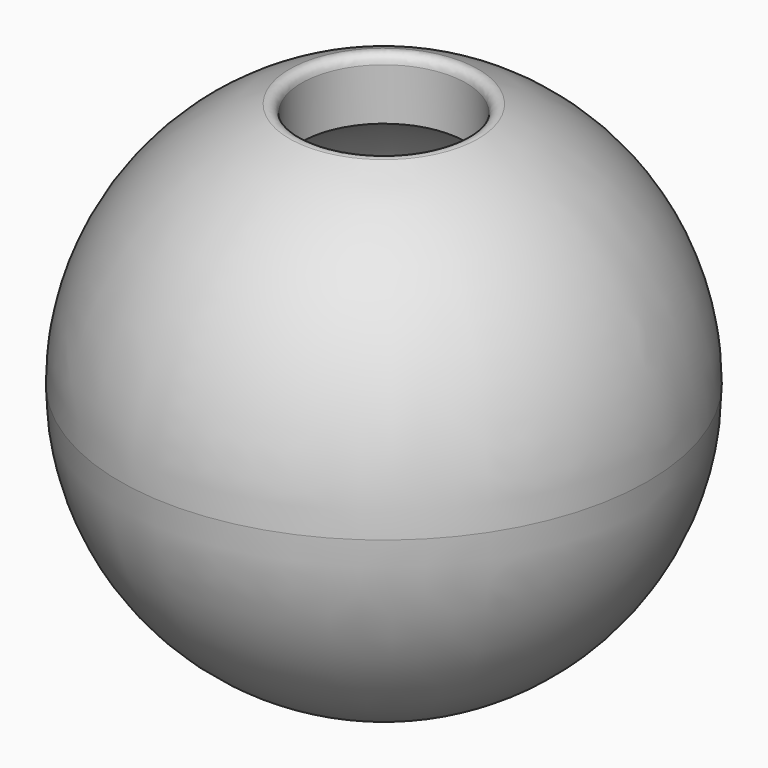
from build123d import *

# Parameters (mm, degrees)
F3_R     = 11.784593
F4_DEPTH = 127
F5_R     = 1.27


with BuildPart() as f1:
    # F0 (on Front) → F1 (revolve)
    with BuildSketch(Plane.XZ):
        with BuildLine():
            ThreePointArc((0, -37.808439), (26.734604, -26.734604), (37.808439, 0))
            ThreePointArc((37.808439, 0), (26.734604, 26.734604), (0, 37.808439))
            Line((0, 37.808439), (0, 29.18069))
            ThreePointArc((0, 29.18069), (20.633864, 20.633864), (29.18069, 0))
            ThreePointArc((29.18069, 0), (20.633864, -20.633864), (0, -29.18069))
            Line((0, -29.18069), (0, -37.808439))
        make_face()
    revolve(axis=Axis((0, 0, -0.202816), (0, 0, -1)))

    # F3 (on offset) → F4 (cut)
    with BuildSketch(Plane.XY.offset(42.672)):
        Circle(F3_R)
    extrude(amount=-F4_DEPTH, mode=Mode.SUBTRACT)

    # F5
    f5_edges = [f1.edges().sort_by_distance(p)[0] for p in [
        (-11.784593, 0, 35.924942),
        (37.808439, 0, 0),
        (-11.784593, 0, -35.924942),
    ]]
    fillet(f5_edges, radius=F5_R)


solid = f1.part
